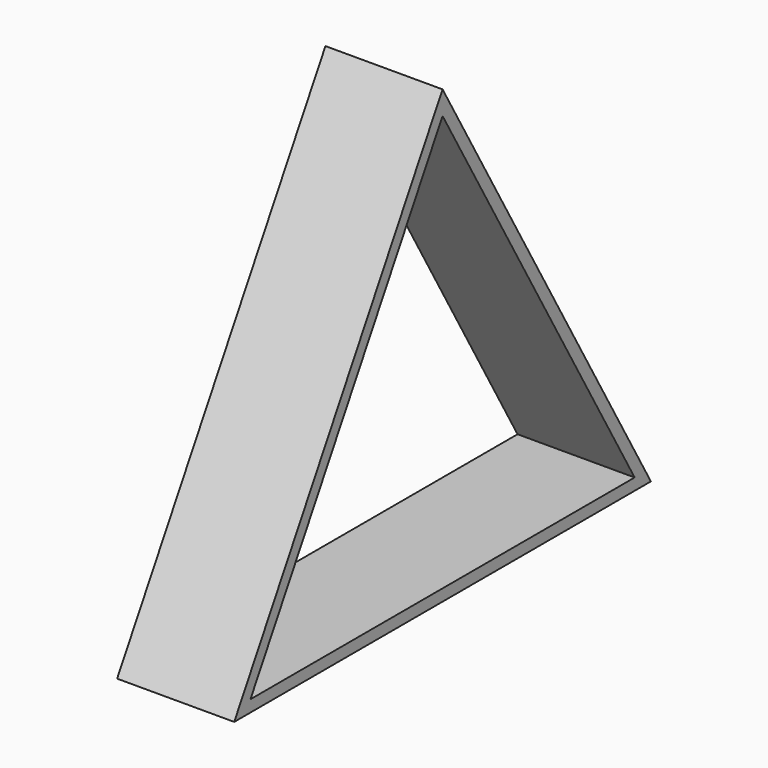
from build123d import *

# Parameters (mm, degrees)
F2_DEPTH = 25


with BuildPart() as f2:
    # F1 (on face) → F2 (new body)
    with BuildSketch(Plane.YZ):
        Polygon((-55.588484, -44.88135), (55.588484, -44.88135), (0, 51.400729), align=None)
        Polygon((51.258357, -42.38135), (-51.258357, -42.38135), (0, 46.400729), align=None, mode=Mode.SUBTRACT)
    extrude(amount=F2_DEPTH)


solid = f2.part
